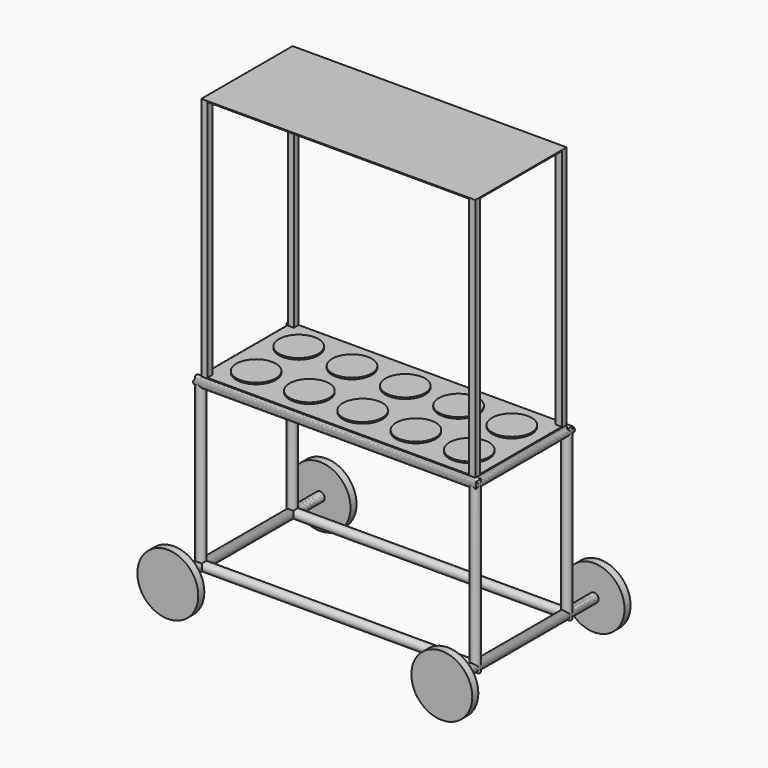
from build123d import *

# Parameters (mm, degrees)
F9_R      = 15
F8_R      = 15
F14_DEPTH = 3
F15_R     = 65
F16_DEPTH = 5
F18_R     = 15
F22_R     = 100
F23_DEPTH = 25
F25_W     = 20
F25_H     = 20
F26_DEPTH = 800
F28_DEPTH = 3


with BuildPart() as f10:
    # F10: sweep along a path in F7
    with BuildLine(Plane.XZ.offset(-187.5)) as f10_path:
        Line((450, 530), (-451.3761666053, 530))
        Line((-451.3761666053, 530), (-451.3761666053, 0))
        Line((-451.3761666053, 0), (450, 0))
        Line((450, 0), (450, 530))
    # F9 (on Right) → F10 (sweep)
    with BuildSketch(Plane.YZ):
        with Locations((187.5, 530)):
            Circle(F9_R)
    sweep(path=f10_path.line, transition=Transition.RIGHT)

    # F11: sweep along a path in F3
    with BuildLine(Plane.XY.offset(530)) as f11_path:
        Line((450, -187.5), (-450, -187.5))
        Line((-450, -187.5), (-450, 187.5))
        Line((-450, 187.5), (450, 187.5))
        Line((450, 187.5), (450, -187.5))
    # F8 (on Right) → F11 (sweep)
    with BuildSketch(Plane.YZ):
        with Locations((-187.5, 530)):
            Circle(F8_R)
    sweep(path=f11_path.line, transition=Transition.RIGHT)

    # F19: sweep along a path in F17
    with BuildLine(Plane.XY) as f19_path:
        Line((-450, -300), (-450, 0))
        Line((-450, 0), (-450, 300))
    # F18 (on Front) → F19 (sweep)
    with BuildSketch(Plane.XZ):
        with Locations((-450, 0)):
            Circle(F18_R)
    sweep(path=f19_path.line)

    # F20: sweep along a path in F17
    with BuildLine(Plane.XY) as f20_path:
        Line((450, -300), (450, 0))
        Line((450, 0), (450, 300))
    # F18 (on Front) → F20 (sweep)
    with BuildSketch(Plane.XZ):
        with Locations((450, 0)):
            Circle(F18_R)
        with Locations((-450, 0)):
            Circle(F18_R)
    sweep(path=f20_path.line)

    # F22 (on offset) → F23 (join)
    with BuildSketch(Plane.XZ.offset(300)):
        with Locations((-450, 0)):
            Circle(F22_R)
        with Locations((450, 0)):
            Circle(F22_R)
    extrude(amount=F23_DEPTH)


with BuildPart() as f14:
    # F13 (on offset) → F14 (new body)
    with BuildSketch(Plane.XY.offset(545)):
        Polygon((-450, 187.5), (-450, 0), (-450, -187.5), (450, -187.5), (450, 187.5), align=None)
    extrude(amount=F14_DEPTH)

    # F15 (on face) → F16 (join)
    with BuildSketch(Plane.XY.offset(548)):
        with Locations((-350, -87.5)):
            Circle(F15_R)
        with Locations((-350, 87.5)):
            Circle(F15_R)
        with Locations((-175, 87.5)):
            Circle(F15_R)
        with Locations((0, 87.5)):
            Circle(F15_R)
        with Locations((175, 87.5)):
            Circle(F15_R)
        with Locations((350, 87.5)):
            Circle(F15_R)
        with Locations((-175, -87.5)):
            Circle(F15_R)
        with Locations((0, -87.5)):
            Circle(F15_R)
        with Locations((175, -87.5)):
            Circle(F15_R)
        with Locations((350, -87.5)):
            Circle(F15_R)
    extrude(amount=F16_DEPTH)

    # F25 (on face) → F26 (join)
    with BuildSketch(Plane.XY.offset(548)):
        with Locations((-440, -177.5)):
            Rectangle(F25_W, F25_H)
        with Locations((-440, 177.5)):
            Rectangle(F25_W, F25_H)
        with Locations((440, 177.5)):
            Rectangle(F25_W, F25_H)
        with Locations((440, -177.5)):
            Rectangle(F25_W, F25_H)
    extrude(amount=F26_DEPTH)

    # F27 (on face) → F28 (join)
    with BuildSketch(Plane.XY.offset(1348)):
        Polygon((450, 187.5), (-430, 187.5), (-430, 167.5), (-450, 167.5), (-450, -187.5), (450, -187.5), align=None)
    extrude(amount=-F28_DEPTH)


with BuildPart() as f24_1:
    # F24: instance of F10
    add(f10.part.mirror(Plane.XZ))


solid = Compound([f10.part, f14.part, f24_1.part])
